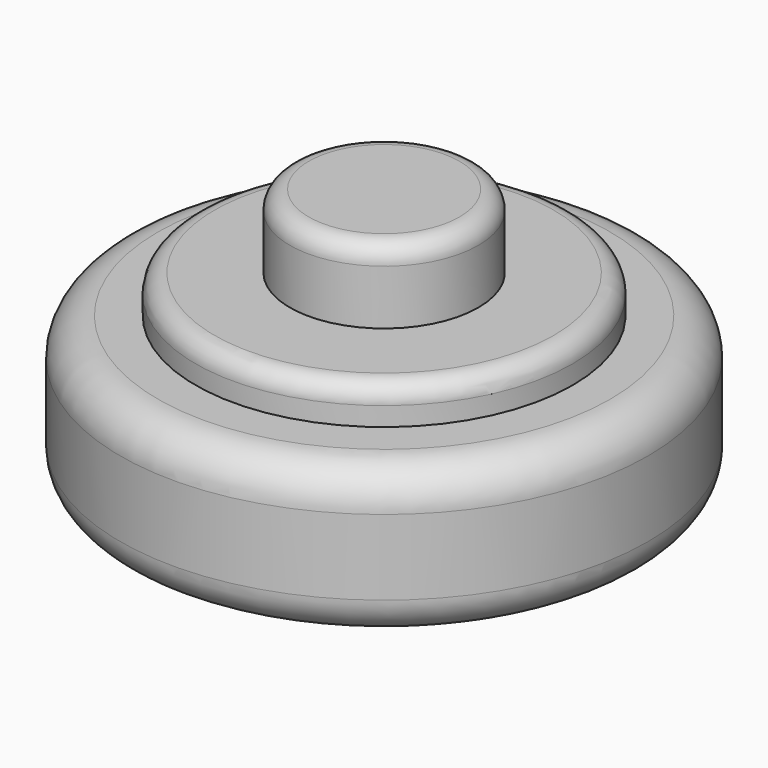
from build123d import *

# Parameters (mm, degrees)
CYLINDER001_R     = 11.1125
CYLINDER001_DEPTH = 6.35
FILLET006_R       = 1.5875
FILLET007_R       = 1.5875
SKETCH003_R       = 7.9375
PAD003_DEPTH      = 1.5875
FILLET008_R       = 0.79375
SKETCH004_R       = 3.96875
PAD004_DEPTH      = 3.1
FILLET009_R       = 0.79375


with BuildPart() as part:
    # Cylinder001 → Cylinder001 (new body)
    with BuildSketch(Plane.XY):
        Circle(CYLINDER001_R)
    extrude(amount=CYLINDER001_DEPTH)

    # Fillet006
    fillet006_edges = [part.edges().sort_by_distance(p)[0] for p in [
        (-11.1125, 0, 6.35),
    ]]
    fillet(fillet006_edges, radius=FILLET006_R)

    # Fillet007
    fillet007_edges = [part.edges().sort_by_distance(p)[0] for p in [
        (-11.1125, 0, 0),
    ]]
    fillet(fillet007_edges, radius=FILLET007_R)

    # Sketch003 → Pad003 (new body)
    with BuildSketch(Plane.XY.offset(6.35)):
        Circle(SKETCH003_R)
    extrude(amount=PAD003_DEPTH)

    # Fillet008
    fillet008_edges = [part.edges().sort_by_distance(p)[0] for p in [
        (-7.9375, 0, 7.9375),
    ]]
    fillet(fillet008_edges, radius=FILLET008_R)

    # Sketch004 → Pad004 (new body)
    with BuildSketch(Plane.XY.offset(7.9375)):
        Circle(SKETCH004_R)
    extrude(amount=PAD004_DEPTH)

    # Fillet009
    fillet009_edges = [part.edges().sort_by_distance(p)[0] for p in [
        (-3.96875, 0, 11.0375),
    ]]
    fillet(fillet009_edges, radius=FILLET009_R)


solid = part.part
